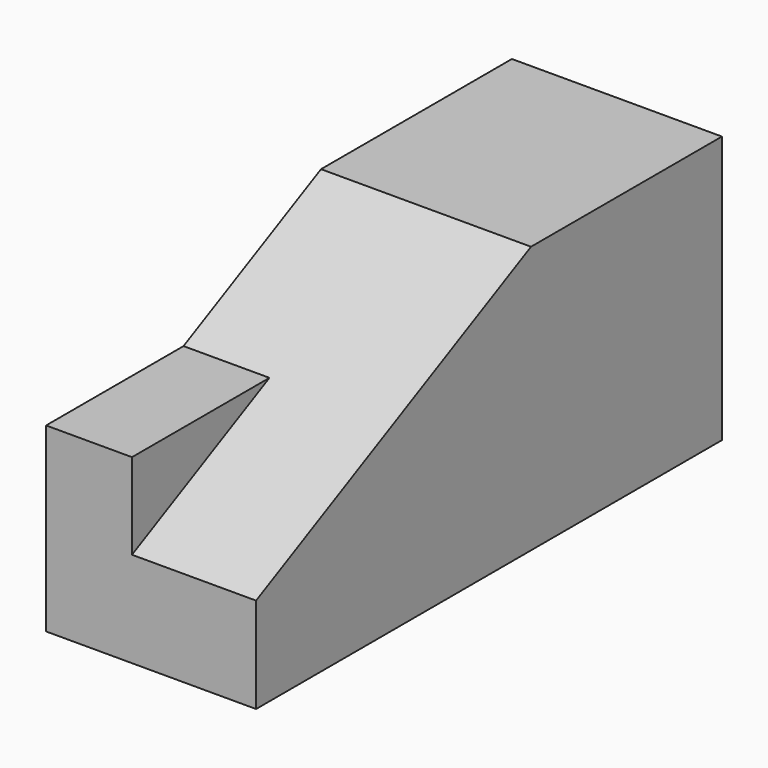
from build123d import *

# Parameters (mm, degrees)
F0_W     = 22
F0_H     = 61
F1_DEPTH = 28
F3_DEPTH = 22.001
F5_DEPTH = 9


with BuildPart() as f1:
    # F0 (on Top) → F1 (new body)
    with BuildSketch(Plane.XY):
        with Locations((11, 30.5)):
            Rectangle(F0_W, F0_H)
    extrude(amount=F1_DEPTH)

    # F2 (on face) → F3 (cut, through all)
    with BuildSketch(Plane.YZ.offset(22)):
        Polygon((36, 28), (0, 28), (0, 10), align=None)
    extrude(amount=-F3_DEPTH, mode=Mode.SUBTRACT)

    # F4 (on face) → F5 (join)
    with BuildSketch(Plane(origin=(0, 0, 0), x_dir=(0, -1, 0), z_dir=(-1, 0, 0))):
        Polygon((-18, 19), (0, 10), (0, 19), align=None)
    extrude(amount=-F5_DEPTH)


solid = f1.part
